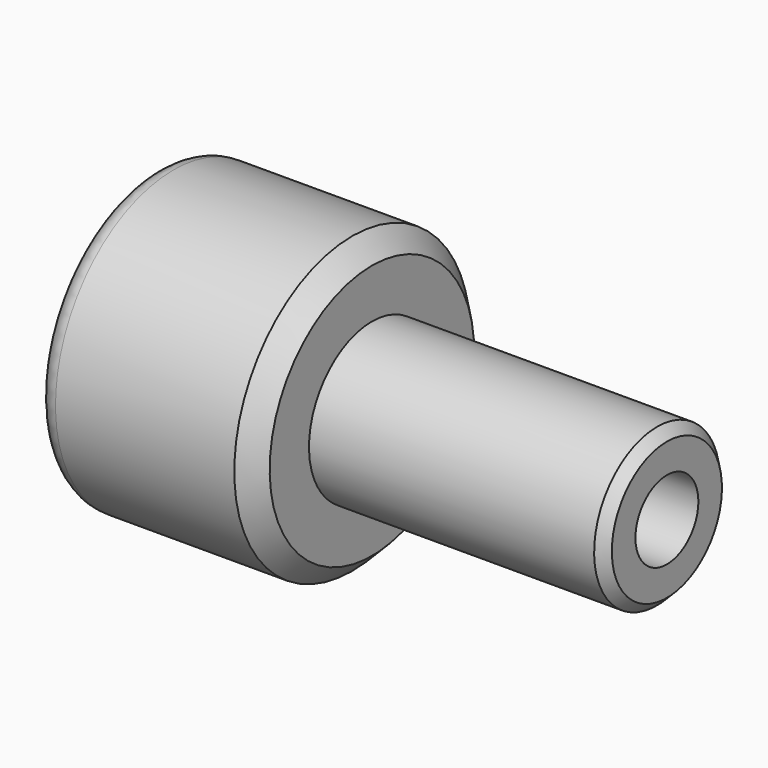
from build123d import *

# Parameters (mm, degrees)
F2_R    = 1
F3_SIZE = 1
F4_SIZE = 0.5


with BuildPart() as f1:
    # F0 (on Front) → F1 (revolve)
    with BuildSketch(Plane.XZ):
        Polygon((0, 7.5), (-10.669873, 7.5), (-15, 0), (0, 0), (0, 2), (15, 2), (15, 4), (0, 4), align=None)
    revolve(axis=Axis((-7.5, 0, 0), (1, 0, 0)))

    # F2
    f2_edges = [f1.edges().sort_by_distance(p)[0] for p in [
        (-10.669873, 0, -7.5),
    ]]
    fillet(f2_edges, radius=F2_R)

    # F3
    f3_edges = [f1.edges().sort_by_distance(p)[0] for p in [
        (0, 0, -7.5),
    ]]
    chamfer(f3_edges, length=F3_SIZE)

    # F4
    f4_edges = [f1.edges().sort_by_distance(p)[0] for p in [
        (15, 0, -4),
    ]]
    chamfer(f4_edges, length=F4_SIZE)


solid = f1.part
